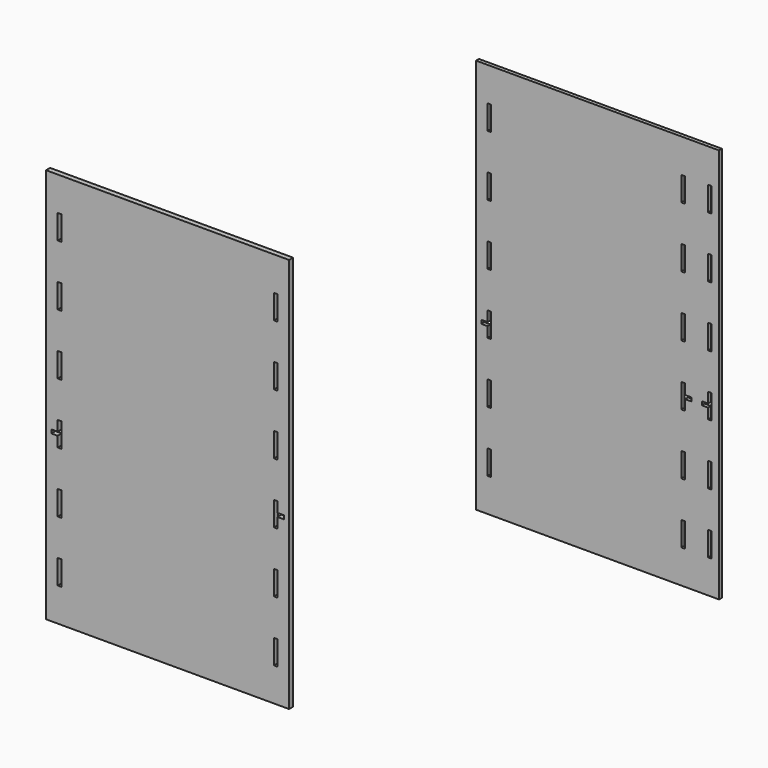
from build123d import *

# Parameters (mm, degrees)
F0_W     = 18
F0_H     = 120
F1_DEPTH = 25
F2_W     = 18
F2_H     = 120
F3_DEPTH = 18


with BuildPart() as f1:
    # F0 (on Front) → F1 (new body)
    with BuildSketch(Plane.XZ):
        Polygon((1083.41291, 1458.001808), (33.41291, 1458.001808), (15.41291, 1458.001808), (-41.58709, 1458.001808), (-41.58709, -494.498192), (15.41291, -494.498192), (33.41291, -494.498192), (558.41291, -494.498192), (1083.41291, -494.498192), (1101.41291, -494.498192), (1158.41291, -494.498192), (1158.41291, 1458.001808), (1101.41291, 1458.001808), align=None)
        with Locations((24.41291, -268.998192)):
            Rectangle(F0_W, F0_H, mode=Mode.SUBTRACT)
        with Locations((24.41291, 31.001808)):
            Rectangle(F0_W, F0_H, mode=Mode.SUBTRACT)
        Polygon((-15.58709, 322.001808), (-15.58709, 340.001808), (15.41291, 340.001808), (15.41291, 391.001808), (33.41291, 391.001808), (33.41291, 331.001808), (33.41291, 271.001808), (15.41291, 271.001808), (15.41291, 322.001808), align=None, mode=Mode.SUBTRACT)
        with Locations((1092.41291, -268.998192)):
            Rectangle(F0_W, F0_H, mode=Mode.SUBTRACT)
        with Locations((1092.41291, 31.001808)):
            Rectangle(F0_W, F0_H, mode=Mode.SUBTRACT)
        Polygon((1083.41291, 271.001808), (1083.41291, 331.001808), (1083.41291, 391.001808), (1101.41291, 391.001808), (1101.41291, 340.001808), (1132.41291, 340.001808), (1132.41291, 322.001808), (1101.41291, 322.001808), (1101.41291, 271.001808), align=None, mode=Mode.SUBTRACT)
        with Locations((24.41291, 631.001808)):
            Rectangle(F0_W, F0_H, mode=Mode.SUBTRACT)
        with Locations((24.41291, 931.001808)):
            Rectangle(F0_W, F0_H, mode=Mode.SUBTRACT)
        with Locations((24.41291, 1231.001808)):
            Rectangle(F0_W, F0_H, mode=Mode.SUBTRACT)
        with Locations((1092.41291, 631.001808)):
            Rectangle(F0_W, F0_H, mode=Mode.SUBTRACT)
        with Locations((1092.41291, 931.001808)):
            Rectangle(F0_W, F0_H, mode=Mode.SUBTRACT)
        with Locations((1092.41291, 1231.001808)):
            Rectangle(F0_W, F0_H, mode=Mode.SUBTRACT)
    extrude(amount=F1_DEPTH)


with BuildPart() as f3:
    # F2 (on Front) → F3 (new body)
    with BuildSketch(Plane.XZ):
        Polygon((2076.127506, 667.826232), (2133.127506, 667.826232), (2151.127506, 667.826232), (3090.127506, 667.826232), (3108.127506, 667.826232), (3222.127506, 667.826232), (3240.127506, 667.826232), (3276.127506, 667.826232), (3276.127506, 2620.326232), (3240.127506, 2620.326232), (3222.127506, 2620.326232), (3108.127506, 2620.326232), (3090.127506, 2620.326232), (2151.127506, 2620.326232), (2133.127506, 2620.326232), (2076.127506, 2620.326232), align=None)
        with Locations((2142.127506, 893.326232)):
            Rectangle(F2_W, F2_H, mode=Mode.SUBTRACT)
        with Locations((2142.127506, 1193.326232)):
            Rectangle(F2_W, F2_H, mode=Mode.SUBTRACT)
        Polygon((2102.127506, 1484.326232), (2102.127506, 1502.326232), (2133.127506, 1502.326232), (2133.127506, 1553.326232), (2151.127506, 1553.326232), (2151.127506, 1433.326232), (2133.127506, 1433.326232), (2133.127506, 1484.326232), align=None, mode=Mode.SUBTRACT)
        with Locations((3099.127506, 893.326232)):
            Rectangle(F2_W, F2_H, mode=Mode.SUBTRACT)
        with Locations((3231.127506, 893.326232)):
            Rectangle(F2_W, F2_H, mode=Mode.SUBTRACT)
        with Locations((3099.127506, 1193.326232)):
            Rectangle(F2_W, F2_H, mode=Mode.SUBTRACT)
        with Locations((3231.127506, 1193.326232)):
            Rectangle(F2_W, F2_H, mode=Mode.SUBTRACT)
        Polygon((3108.127506, 1484.326232), (3108.127506, 1433.326232), (3090.127506, 1433.326232), (3090.127506, 1553.326232), (3108.127506, 1553.326232), (3108.127506, 1502.326232), (3139.127506, 1502.326232), (3139.127506, 1484.326232), align=None, mode=Mode.SUBTRACT)
        Polygon((3240.127506, 1433.326232), (3222.127506, 1433.326232), (3222.127506, 1484.326232), (3191.127506, 1484.326232), (3191.127506, 1502.326232), (3222.127506, 1502.326232), (3222.127506, 1553.326232), (3240.127506, 1553.326232), align=None, mode=Mode.SUBTRACT)
        with Locations((2142.127506, 1793.326232)):
            Rectangle(F2_W, F2_H, mode=Mode.SUBTRACT)
        with Locations((2142.127506, 2093.326232)):
            Rectangle(F2_W, F2_H, mode=Mode.SUBTRACT)
        with Locations((2142.127506, 2393.326232)):
            Rectangle(F2_W, F2_H, mode=Mode.SUBTRACT)
        with Locations((3099.127506, 1793.326232)):
            Rectangle(F2_W, F2_H, mode=Mode.SUBTRACT)
        with Locations((3231.127506, 1793.326232)):
            Rectangle(F2_W, F2_H, mode=Mode.SUBTRACT)
        with Locations((3099.127506, 2093.326232)):
            Rectangle(F2_W, F2_H, mode=Mode.SUBTRACT)
        with Locations((3231.127506, 2093.326232)):
            Rectangle(F2_W, F2_H, mode=Mode.SUBTRACT)
        with Locations((3099.127506, 2393.326232)):
            Rectangle(F2_W, F2_H, mode=Mode.SUBTRACT)
        with Locations((3231.127506, 2393.326232)):
            Rectangle(F2_W, F2_H, mode=Mode.SUBTRACT)
    extrude(amount=F3_DEPTH)


solid = Compound([f1.part, f3.part])
